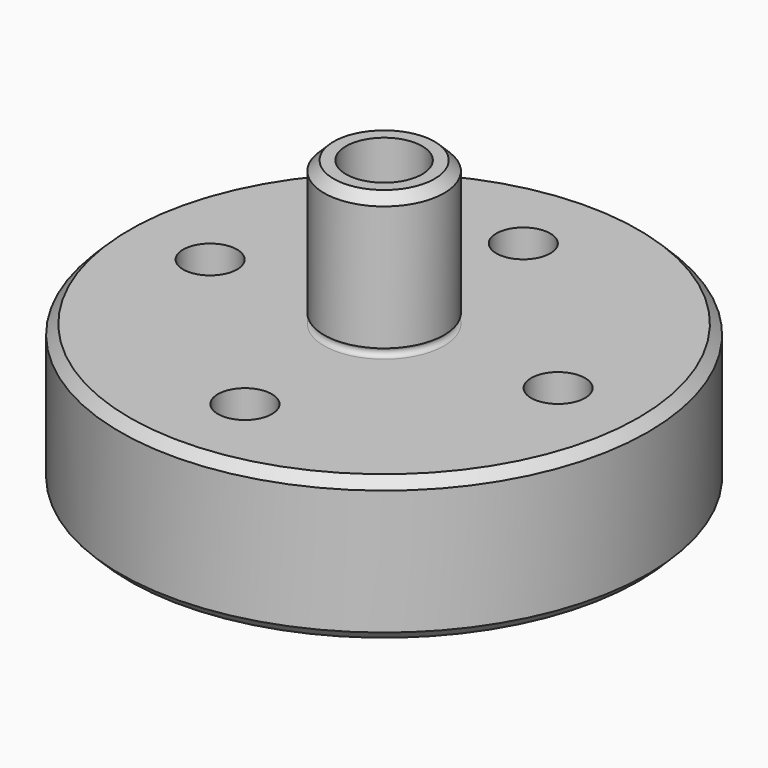
from build123d import *

# Parameters (mm, degrees)
F3_D    = 6.35
F5_D    = 4.5
F6_SIZE = 0.79375


with BuildPart() as f1:
    # F0 (on Front) → F1 (revolve)
    with BuildSketch(Plane.XZ):
        with BuildLine():
            Line((0, 24), (0, 0))
            Line((0, 0), (22, 0))
            Line((22, 0), (22, 12))
            Line((22, 12), (5, 12))
            ThreePointArc((5, 12), (4.603125, 12.396875), (5, 12.79375))
            Line((5, 12.79375), (5, 24))
            Line((5, 24), (0, 24))
        make_face()
    revolve(axis=Axis((0, 0, 12), (0, 0, 1)))

    # F3 (through all)
    with Locations(Plane.XY.offset(24)):
        with Locations((0, 0)):
            Hole(F3_D / 2)

    # F5 (through all)
    with Locations(Plane.XY.offset(12)):
        with Locations((0, 14.5), (-14.5, 0), (0, -14.5), (14.5, 0)):
            Hole(F5_D / 2)

    # F6
    f6_edges = [f1.edges().sort_by_distance(p)[0] for p in [
        (-22, 0, 12),
        (-22, 0, 0),
        (22, 0, 6),
        (-5, 0, 24),
    ]]
    chamfer(f6_edges, length=F6_SIZE)


solid = f1.part
